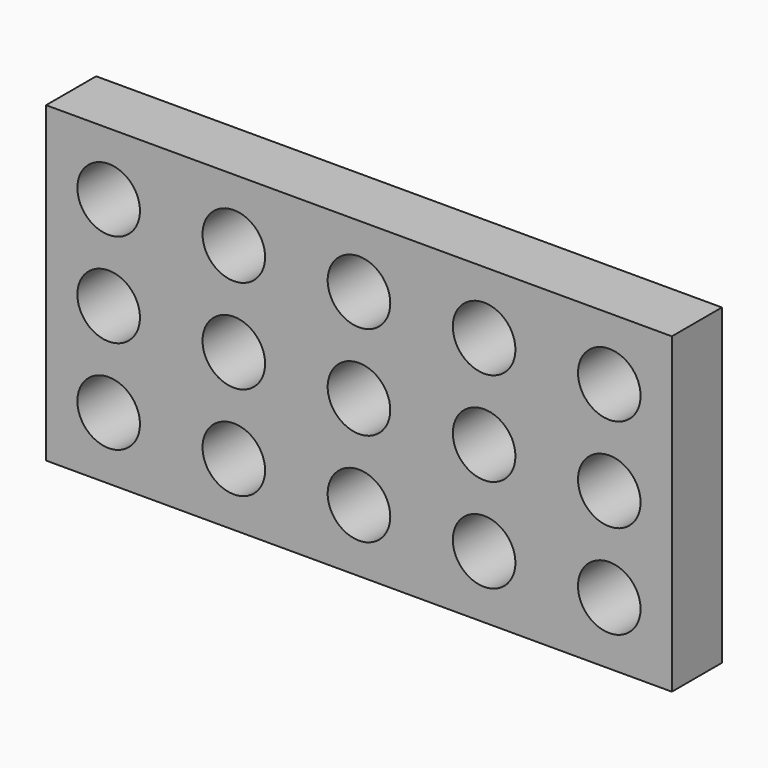
from build123d import *

# Parameters (mm, degrees)
F0_W     = 254
F0_H     = 127
F0_R     = 12.7
F1_DEPTH = 25.4


with BuildPart() as f1:
    # F0 (on Front) → F1 (new body)
    with BuildSketch(Plane.XZ):
        with Locations((127, -63.5)):
            Rectangle(F0_W, F0_H)
        with Locations((25.4, -101.6)):
            Circle(F0_R, mode=Mode.SUBTRACT)
        with Locations((76.2, -101.6)):
            Circle(F0_R, mode=Mode.SUBTRACT)
        with Locations((127, -101.6)):
            Circle(F0_R, mode=Mode.SUBTRACT)
        with Locations((177.8, -101.6)):
            Circle(F0_R, mode=Mode.SUBTRACT)
        with Locations((228.6, -101.6)):
            Circle(F0_R, mode=Mode.SUBTRACT)
        with Locations((25.4, -63.5)):
            Circle(F0_R, mode=Mode.SUBTRACT)
        with Locations((76.2, -63.5)):
            Circle(F0_R, mode=Mode.SUBTRACT)
        with Locations((25.4, -25.4)):
            Circle(F0_R, mode=Mode.SUBTRACT)
        with Locations((76.2, -25.4)):
            Circle(F0_R, mode=Mode.SUBTRACT)
        with Locations((127, -63.5)):
            Circle(F0_R, mode=Mode.SUBTRACT)
        with Locations((177.8, -63.5)):
            Circle(F0_R, mode=Mode.SUBTRACT)
        with Locations((228.6, -63.5)):
            Circle(F0_R, mode=Mode.SUBTRACT)
        with Locations((127, -25.4)):
            Circle(F0_R, mode=Mode.SUBTRACT)
        with Locations((177.8, -25.4)):
            Circle(F0_R, mode=Mode.SUBTRACT)
        with Locations((228.6, -25.4)):
            Circle(F0_R, mode=Mode.SUBTRACT)
    extrude(amount=F1_DEPTH)


solid = f1.part
